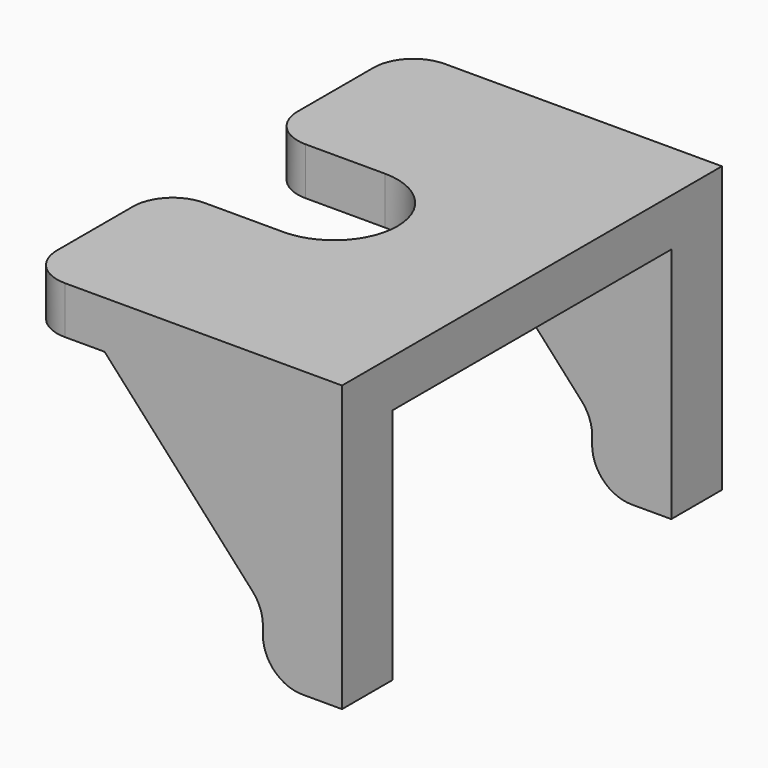
from build123d import *

# Parameters (mm, degrees)
PAD042_DEPTH            = 1.2
PAD043_DEPTH            = 1.6
LINEARPATTERN004_COUNT  = 2
LINEARPATTERN004_PITCH  = 10.4
FILLET012_R             = 1
FILLET013_R             = 1
FILLET014_R             = 1
BODY014_PLACEMENT_ANGLE = 180


with BuildPart() as part:
    # Sketch074 → Pad042 (new body)
    with BuildSketch(Plane.XY):
        with BuildLine():
            Line((-4, 6), (4, 6))
            Line((4, 6), (4, 1.6))
            Line((1, 1.6), (4, 1.6))
            ThreePointArc((1, 1.6), (-0.6, 0), (1, -1.6))
            Line((4, -1.6), (1, -1.6))
            Line((4, -1.6), (4, -6))
            Line((4, -6), (-4, -6))
            Line((-4, -6), (-4, 6))
        make_face()
    extrude(amount=PAD042_DEPTH)

    # Sketch075 (on DatumPlane) → Pad043 (join)
    with BuildSketch(Plane.XZ.offset(6)):
        Polygon((-4, 0), (-4, -6), (-2, -6), (-2, -4.4), (2, 0), align=None)
    pad043 = extrude(amount=-PAD043_DEPTH)

    # LinearPattern004: Pad043 ×2
    with Locations(*[(0, i * LINEARPATTERN004_PITCH, 0) for i in range(1, LINEARPATTERN004_COUNT)]):
        add(pad043)

    # Fillet012
    fillet012_edges = [part.edges().sort_by_distance(p)[0] for p in [
        (-2, -5.2, -6),
        (-2, 5.2, -6),
    ]]
    fillet(fillet012_edges, radius=FILLET012_R)

    # Fillet013
    fillet013_edges = [part.edges().sort_by_distance(p)[0] for p in [
        (-2, -5.2, -4.4),
        (-2, 5.2, -4.4),
    ]]
    fillet(fillet013_edges, radius=FILLET013_R)

    # Fillet014
    fillet014_edges = [part.edges().sort_by_distance(p)[0] for p in [
        (4, -6, 0.6),
        (4, -1.6, 0.6),
        (4, 1.6, 0.6),
        (4, 6, 0.6),
    ]]
    fillet(fillet014_edges, radius=FILLET014_R)


with BuildPart() as part_1:
    # Body014 placement: moved
    add(part.part.moved(Location((-62, -43, 34.2))).rotate(Axis((-62, -43, 34.2), (0, 0, 1)), BODY014_PLACEMENT_ANGLE))


solid = part_1.part
